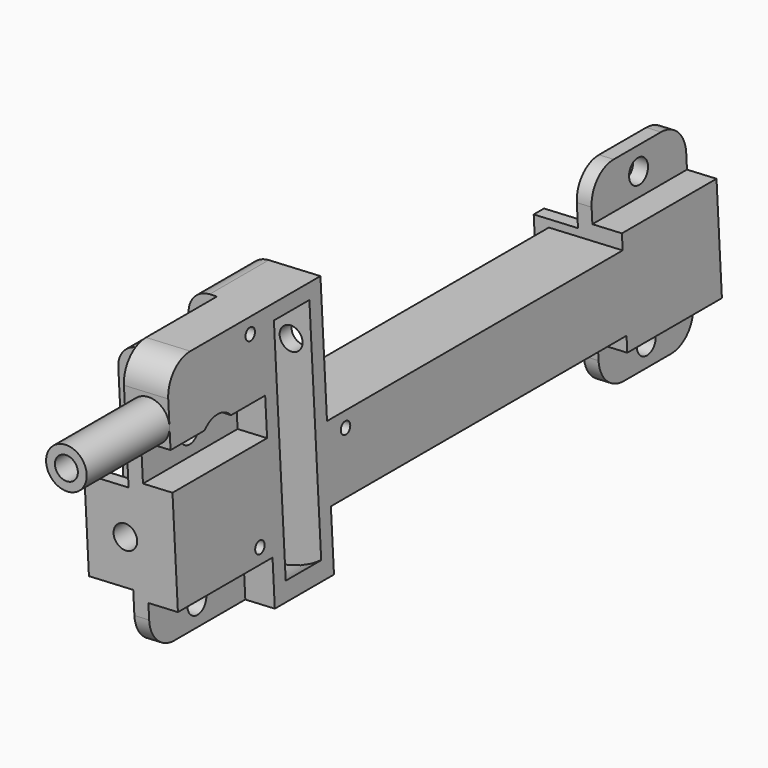
from build123d import *

# Parameters (mm, degrees)
CYLINDER217_R             = 0.8
CYLINDER217_DEPTH         = 5
CYLINDER218_R             = 0.8
CYLINDER218_DEPTH         = 5
CYLINDER216_R             = 0.8
CYLINDER216_DEPTH         = 5
CYLINDER215_R             = 1.55
CYLINDER215_DEPTH         = 47
CYLINDER214_R             = 3
CYLINDER214_DEPTH         = 4
BOX140_W                  = 6
BOX140_H                  = 16
BOX140_DEPTH              = 10
BOX143_W                  = 10
BOX143_H                  = 6
BOX143_DEPTH              = 11
BOX142_W                  = 10
BOX142_H                  = 10
BOX142_DEPTH              = 9
CYLINDER213_R             = 12.5
CYLINDER213_DEPTH         = 6
BOX141_W                  = 20
BOX141_H                  = 10
BOX141_DEPTH              = 26
CYLINDER212_R             = 2.75
CYLINDER212_DEPTH         = 30
BOX139_W                  = 10
BOX139_H                  = 10
BOX139_DEPTH              = 10
CYLINDER211_R             = 2
CYLINDER211_DEPTH         = 92
BOX138_W                  = 10
BOX138_H                  = 60
BOX138_DEPTH              = 10
CYLINDER210_R             = 1.6
CYLINDER210_DEPTH         = 10
CYLINDER209_R             = 1.6
CYLINDER209_DEPTH         = 10
CYLINDER208_R             = 1.6
CYLINDER208_DEPTH         = 10
CYLINDER207_R             = 1.6
CYLINDER207_DEPTH         = 10
CYLINDER206_R             = 1.6
CYLINDER206_DEPTH         = 92
BOX133_W                  = 10
BOX133_H                  = 12.5
BOX133_DEPTH              = 12
BOX131_W                  = 2
BOX131_H                  = 16
BOX131_DEPTH              = 26
BOX132_W                  = 4
BOX132_H                  = 16
BOX132_DEPTH              = 14
BOX130_W                  = 12
BOX130_H                  = 16
BOX130_DEPTH              = 12
BOX135_W                  = 8
BOX135_H                  = 2
BOX135_DEPTH              = 6
BOX134_W                  = 8
BOX134_H                  = 2
BOX134_DEPTH              = 6
FILLET057_R               = 2.5
BOX137_W                  = 8
BOX137_H                  = 2
BOX137_DEPTH              = 6
BOX136_W                  = 8
BOX136_H                  = 2
BOX136_DEPTH              = 6
FILLET058_R               = 2.5
BOX129_W                  = 10
BOX129_H                  = 12.5
BOX129_DEPTH              = 12
BOX127_W                  = 2
BOX127_H                  = 16
BOX127_DEPTH              = 26
BOX128_W                  = 4
BOX128_H                  = 16
BOX128_DEPTH              = 14
BOX126_W                  = 12
BOX126_H                  = 16
BOX126_DEPTH              = 12
FILLET056_R               = 3
FILLET055_R               = 4
FILLET055_PLACEMENT_ANGLE = 3


with BuildPart() as cylinder512:
    # Cylinder217 → Cylinder217 (new body)
    with BuildSketch(Plane(origin=(331, 23, -46), x_dir=(0, 0, -1), z_dir=(1, 0, 0))):
        Circle(CYLINDER217_R)
    extrude(amount=CYLINDER217_DEPTH)


with BuildPart() as cylinder513:
    # Cylinder218 → Cylinder218 (new body)
    with BuildSketch(Plane(origin=(331, 8, -29), x_dir=(0, 0, -1), z_dir=(1, 0, 0))):
        Circle(CYLINDER218_R)
    extrude(amount=CYLINDER218_DEPTH)


with BuildPart() as fusion188:
    # Cylinder216 → Cylinder216 (new body)
    with BuildSketch(Plane(origin=(331, 8, -54), x_dir=(0, 0, -1), z_dir=(1, 0, 0))):
        Circle(CYLINDER216_R)
    extrude(amount=CYLINDER216_DEPTH)

    # Fusion188: union Cylinder512, Cylinder513
    add(cylinder512.part)
    add(cylinder513.part)


with BuildPart() as cylinder509:
    # Cylinder215 → Cylinder215 (new body)
    with BuildSketch(Plane(origin=(333.25, 20, -34.25), x_dir=(1, 0, 0), z_dir=(0, -1, 0))):
        Circle(CYLINDER215_R)
    extrude(amount=CYLINDER215_DEPTH)


with BuildPart() as cylinder510:
    # Cylinder214 → Cylinder214 (new body)
    with BuildSketch(Plane(origin=(332, 2, -39), x_dir=(0, 0, -1), z_dir=(1, 0, 0))):
        Circle(CYLINDER214_R)
    extrude(amount=CYLINDER214_DEPTH)


with BuildPart() as cube247:
    # Box140 → Box140 (new body)
    with BuildSketch(Plane(origin=(330, -6, -37), x_dir=(1, 0, 0), z_dir=(0, 0, 1))):
        with Locations((3, 8)):
            Rectangle(BOX140_W, BOX140_H)
    extrude(amount=BOX140_DEPTH)


with BuildPart() as cube246:
    # Box143 → Box143 (new body)
    with BuildSketch(Plane(origin=(328, 12, -40), x_dir=(1, 0, 0), z_dir=(0, 0, 1))):
        with Locations((5, 3)):
            Rectangle(BOX143_W, BOX143_H)
    extrude(amount=BOX143_DEPTH)


with BuildPart() as cube245:
    # Box142 → Box142 (new body)
    with BuildSketch(Plane(origin=(326, 10, -36), x_dir=(1, 0, 0), z_dir=(0, 0, 1))):
        with Locations((5, 5)):
            Rectangle(BOX142_W, BOX142_H)
    extrude(amount=BOX142_DEPTH)


with BuildPart() as cylinder507:
    # Cylinder213 → Cylinder213 (new body)
    with BuildSketch(Plane(origin=(329.25, 18, -49), x_dir=(1, 0, 0), z_dir=(0, -1, 0))):
        Circle(CYLINDER213_R)
    extrude(amount=CYLINDER213_DEPTH)


with BuildPart() as cut151:
    # Box141 → Box141 (new body)
    with BuildSketch(Plane(origin=(316, 10, -62), x_dir=(1, 0, 0), z_dir=(0, 0, 1))):
        with Locations((10, 5)):
            Rectangle(BOX141_W, BOX141_H)
    extrude(amount=BOX141_DEPTH)

    # Cut152: cut Cylinder507
    add(cylinder507.part, mode=Mode.SUBTRACT)

    # Fusion187: union Cube245
    add(cube245.part)

    # Cut151: cut Cube246
    add(cube246.part, mode=Mode.SUBTRACT)


with BuildPart() as cut149:
    # Cylinder212 → Cylinder212 (new body)
    with BuildSketch(Plane(origin=(333.25, 10, -34.25), x_dir=(1, 0, 0), z_dir=(0, -1, 0))):
        Circle(CYLINDER212_R)
    extrude(amount=CYLINDER212_DEPTH)

    # Fusion186: union Cube247, Cut151
    add(cube247.part)
    add(cut151.part)

    # Cut150: cut Cylinder510
    add(cylinder510.part, mode=Mode.SUBTRACT)

    # Cut149: cut Cylinder509
    add(cylinder509.part, mode=Mode.SUBTRACT)


with BuildPart() as cube238:
    # Box139 → Box139 (new body)
    with BuildSketch(Plane(origin=(326, 10, -54), x_dir=(1, 0, 0), z_dir=(0, 0, 1))):
        with Locations((5, 5)):
            Rectangle(BOX139_W, BOX139_H)
    extrude(amount=BOX139_DEPTH)


with BuildPart() as cylinder499:
    # Cylinder211 → Cylinder211 (new body)
    with BuildSketch(Plane(origin=(329.25, 86, -49), x_dir=(1, 0, 0), z_dir=(0, -1, 0))):
        Circle(CYLINDER211_R)
    extrude(amount=CYLINDER211_DEPTH)


with BuildPart() as cut148:
    # Box138 → Box138 (new body)
    with BuildSketch(Plane(origin=(326, 10, -54), x_dir=(1, 0, 0), z_dir=(0, 0, 1))):
        with Locations((5, 30)):
            Rectangle(BOX138_W, BOX138_H)
    extrude(amount=BOX138_DEPTH)

    # Cut148: cut Cylinder499
    add(cylinder499.part, mode=Mode.SUBTRACT)


with BuildPart() as cylinder503:
    # Cylinder210 → Cylinder210 (new body)
    with BuildSketch(Plane(origin=(323, 0, -39), x_dir=(0, 0, -1), z_dir=(1, 0, 0))):
        Circle(CYLINDER210_R)
    extrude(amount=CYLINDER210_DEPTH)


with BuildPart() as fusion185:
    # Cylinder209 → Cylinder209 (new body)
    with BuildSketch(Plane(origin=(323, 0, -59), x_dir=(0, 0, -1), z_dir=(1, 0, 0))):
        Circle(CYLINDER209_R)
    extrude(amount=CYLINDER209_DEPTH)

    # Fusion185: union Cylinder503
    add(cylinder503.part)


with BuildPart() as fusion185_1:
    # Fusion185 placement: moved
    add(fusion185.part.moved(Location((3, 78, 0))))


with BuildPart() as cylinder500:
    # Cylinder208 → Cylinder208 (new body)
    with BuildSketch(Plane(origin=(323, 0, -39), x_dir=(0, 0, -1), z_dir=(1, 0, 0))):
        Circle(CYLINDER208_R)
    extrude(amount=CYLINDER208_DEPTH)


with BuildPart() as fusion183:
    # Cylinder207 → Cylinder207 (new body)
    with BuildSketch(Plane(origin=(323, 0, -59), x_dir=(0, 0, -1), z_dir=(1, 0, 0))):
        Circle(CYLINDER207_R)
    extrude(amount=CYLINDER207_DEPTH)

    # Fusion184: union Cylinder500
    add(cylinder500.part)


with BuildPart() as fusion183_1:
    # Fusion184 placement: moved
    add(fusion183.part.moved(Location((3, 2, 0))))

    # Fusion183: union Fusion185
    add(fusion185_1.part)


with BuildPart() as cylinder498:
    # Cylinder206 → Cylinder206 (new body)
    with BuildSketch(Plane(origin=(329.25, 86, -49), x_dir=(1, 0, 0), z_dir=(0, -1, 0))):
        Circle(CYLINDER206_R)
    extrude(amount=CYLINDER206_DEPTH)


with BuildPart() as cube227:
    # Box133 → Box133 (new body)
    with BuildSketch(Plane(origin=(324, -4.25, -55), x_dir=(1, 0, 0), z_dir=(0, 0, 1))):
        with Locations((5, 6.25)):
            Rectangle(BOX133_W, BOX133_H)
    extrude(amount=BOX133_DEPTH)


with BuildPart() as cube225:
    # Box131 → Box131 (new body)
    with BuildSketch(Plane(origin=(330, -6, -62), x_dir=(1, 0, 0), z_dir=(0, 0, 1))):
        with Locations((1, 8)):
            Rectangle(BOX131_W, BOX131_H)
    extrude(amount=BOX131_DEPTH)


with BuildPart() as cube226:
    # Box132 → Box132 (new body)
    with BuildSketch(Plane(origin=(332, -6, -56), x_dir=(1, 0, 0), z_dir=(0, 0, 1))):
        with Locations((2, 8)):
            Rectangle(BOX132_W, BOX132_H)
    extrude(amount=BOX132_DEPTH)


with BuildPart() as cut147:
    # Box130 → Box130 (new body)
    with BuildSketch(Plane(origin=(324, -6, -55), x_dir=(1, 0, 0), z_dir=(0, 0, 1))):
        with Locations((6, 8)):
            Rectangle(BOX130_W, BOX130_H)
    extrude(amount=BOX130_DEPTH)

    # Fusion180: union Cube225, Cube226
    add(cube225.part)
    add(cube226.part)

    # Cut147: cut Cube227
    add(cube227.part, mode=Mode.SUBTRACT)


with BuildPart() as cut147_1:
    # Cut147 placement: moved
    add(cut147.part.moved(Location((0, 76, 0))))


with BuildPart() as cube234:
    # Box135 → Box135 (new body)
    with BuildSketch(Plane(origin=(328, -4.5, -52), x_dir=(1, 0, 0), z_dir=(0, 0, 1))):
        with Locations((4, 1)):
            Rectangle(BOX135_W, BOX135_H)
    extrude(amount=BOX135_DEPTH)


with BuildPart() as fillet057:
    # Box134 → Box134 (new body)
    with BuildSketch(Plane(origin=(328, 6.25, -52), x_dir=(1, 0, 0), z_dir=(0, 0, 1))):
        with Locations((4, 1)):
            Rectangle(BOX134_W, BOX134_H)
    extrude(amount=BOX134_DEPTH)

    # Fusion181: union Cube234
    add(cube234.part)

    # Fillet057
    fillet057_edges = [fillet057.edges().sort_by_distance(p)[0] for p in [
        (328, 7.25, -46),
        (328, 7.25, -52),
        (328, -3.5, -46),
        (328, -3.5, -52),
    ]]
    fillet(fillet057_edges, radius=FILLET057_R)


with BuildPart() as fillet057_1:
    # Fillet057 placement: moved
    add(fillet057.part.moved(Location((-1.5, 0, 0))))


with BuildPart() as cube235:
    # Box137 → Box137 (new body)
    with BuildSketch(Plane(origin=(328, -4.5, -52), x_dir=(1, 0, 0), z_dir=(0, 0, 1))):
        with Locations((4, 1)):
            Rectangle(BOX137_W, BOX137_H)
    extrude(amount=BOX137_DEPTH)


with BuildPart() as fillet058:
    # Box136 → Box136 (new body)
    with BuildSketch(Plane(origin=(328, 6.25, -52), x_dir=(1, 0, 0), z_dir=(0, 0, 1))):
        with Locations((4, 1)):
            Rectangle(BOX136_W, BOX136_H)
    extrude(amount=BOX136_DEPTH)

    # Fusion182: union Cube235
    add(cube235.part)

    # Fillet058
    fillet058_edges = [fillet058.edges().sort_by_distance(p)[0] for p in [
        (328, 7.25, -46),
        (328, 7.25, -52),
        (328, -3.5, -46),
        (328, -3.5, -52),
    ]]
    fillet(fillet058_edges, radius=FILLET058_R)


with BuildPart() as fillet058_1:
    # Fillet058 placement: moved
    add(fillet058.part.moved(Location((-1.5, 76.25, 0))))


with BuildPart() as cube221:
    # Box129 → Box129 (new body)
    with BuildSketch(Plane(origin=(324, -4.25, -55), x_dir=(1, 0, 0), z_dir=(0, 0, 1))):
        with Locations((5, 6.25)):
            Rectangle(BOX129_W, BOX129_H)
    extrude(amount=BOX129_DEPTH)


with BuildPart() as cube223:
    # Box127 → Box127 (new body)
    with BuildSketch(Plane(origin=(330, -6, -62), x_dir=(1, 0, 0), z_dir=(0, 0, 1))):
        with Locations((1, 8)):
            Rectangle(BOX127_W, BOX127_H)
    extrude(amount=BOX127_DEPTH)


with BuildPart() as cube224:
    # Box128 → Box128 (new body)
    with BuildSketch(Plane(origin=(332, -6, -56), x_dir=(1, 0, 0), z_dir=(0, 0, 1))):
        with Locations((2, 8)):
            Rectangle(BOX128_W, BOX128_H)
    extrude(amount=BOX128_DEPTH)


with BuildPart() as obj1:
    # Box126 → Box126 (new body)
    with BuildSketch(Plane(origin=(324, -6, -55), x_dir=(1, 0, 0), z_dir=(0, 0, 1))):
        with Locations((6, 8)):
            Rectangle(BOX126_W, BOX126_H)
    extrude(amount=BOX126_DEPTH)

    # Fusion179: union Cube223, Cube224
    add(cube223.part)
    add(cube224.part)

    # Cut146: cut Cube221
    add(cube221.part, mode=Mode.SUBTRACT)

    # Fusion178: union Cut147, Fillet057, Fillet058
    add(cut147_1.part)
    add(fillet057_1.part)
    add(fillet058_1.part)

    # Cut145: cut Cylinder498
    add(cylinder498.part, mode=Mode.SUBTRACT)

    # Cut144: cut Fusion183
    add(fusion183_1.part, mode=Mode.SUBTRACT)

    # Fusion177: union Cut148
    add(cut148.part)

    # Cut143: cut Cube238
    add(cube238.part, mode=Mode.SUBTRACT)

    # Fusion176: union Cut149
    add(cut149.part)

    # Cut142: cut Fusion188
    add(fusion188.part, mode=Mode.SUBTRACT)

    # Fillet056
    fillet056_edges = [obj1.edges().sort_by_distance(p)[0] for p in [
        (316, 15, -62),
        (326, 15, -27),
        (316, 15, -36),
    ]]
    fillet(fillet056_edges, radius=FILLET056_R)

    # Fillet055
    fillet055_edges = [obj1.edges().sort_by_distance(p)[0] for p in [
        (331, -6, -62),
        (333, -6, -27),
        (331, 70, -36),
        (331, 70, -62),
        (331, 86, -62),
        (331, 86, -36),
    ]]
    fillet(fillet055_edges, radius=FILLET055_R)


with BuildPart() as obj1_1:
    # Fillet055 placement: moved
    add(obj1.part.moved(Location((-80, -9, 0))).rotate(Axis((-80, -9, 0), (0, -1, 0)), FILLET055_PLACEMENT_ANGLE))


solid = obj1_1.part
